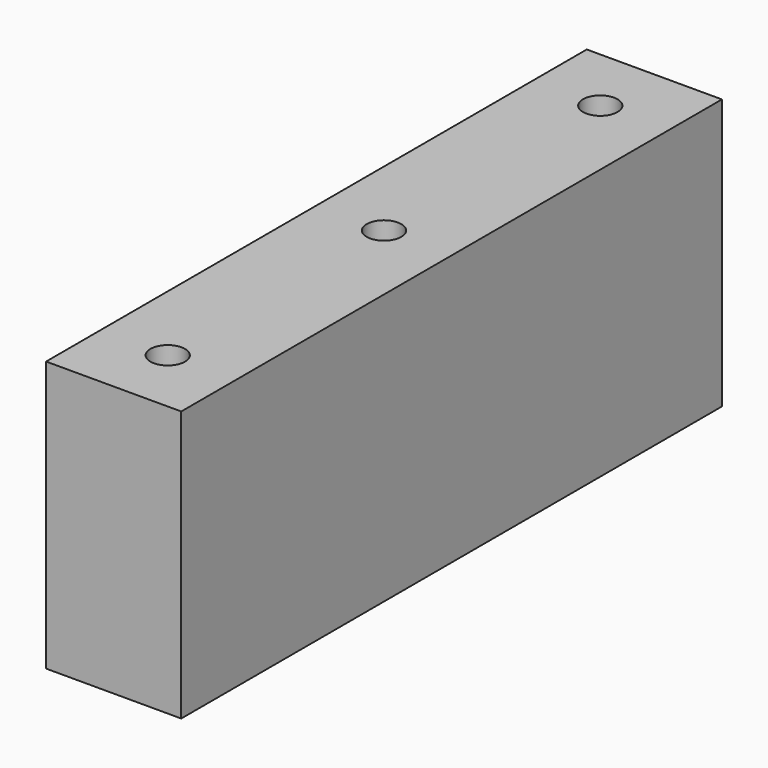
from build123d import *

# Parameters (mm, degrees)
F0_W           = 25
F0_H           = 125
F1_DEPTH       = 50
F3_D           = 6.4
F3_CBORE_D     = 11
F3_CBORE_DEPTH = 10


with BuildPart() as f1:
    # F0 (on Top) → F1 (new body)
    with BuildSketch(Plane.XY):
        Rectangle(F0_W, F0_H)
    extrude(amount=F1_DEPTH)

    # F3 (through all)
    with Locations(Plane(origin=(0, 0, 0), x_dir=(1, 0, 0), z_dir=(0, 0, -1))):
        with Locations((0, 50), (0, -50), (0, 0)):
            CounterBoreHole(F3_D / 2, F3_CBORE_D / 2, F3_CBORE_DEPTH)


solid = f1.part
